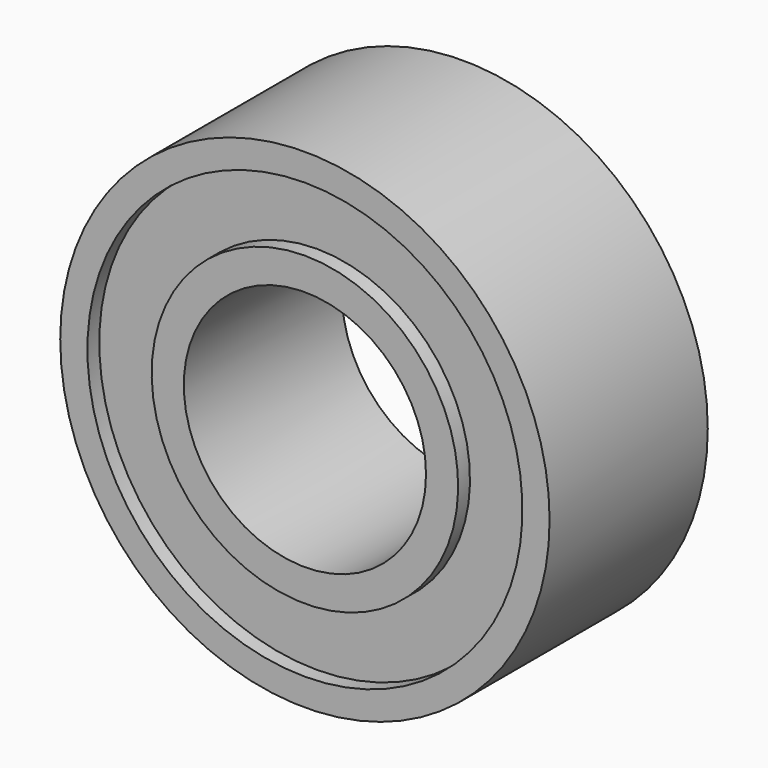
from build123d import *

# Parameters (mm, degrees)
F0_R     = 4.95
F0_R_2   = 2.45
F1_DEPTH = 4
F2_W     = 0.722248
F2_H     = 1.3
F2_W_2   = 0.566372


with BuildPart() as f1:
    # F0 (on Front) → F1 (new body)
    with BuildSketch(Plane.XZ):
        Circle(F0_R)
        Circle(F0_R_2, mode=Mode.SUBTRACT)
    extrude(amount=F1_DEPTH)

    # F2 (on Right) → F3 (revolve, cut)
    with BuildSketch(Plane.YZ):
        with Locations((-4.061124, 3.75)):
            Rectangle(F2_W, F2_H)
        with Locations((-0.016814, 3.75)):
            Rectangle(F2_W_2, F2_H)
    revolve(axis=Axis((0, -1, 0), (0, -1, 0)), mode=Mode.SUBTRACT)


solid = f1.part
